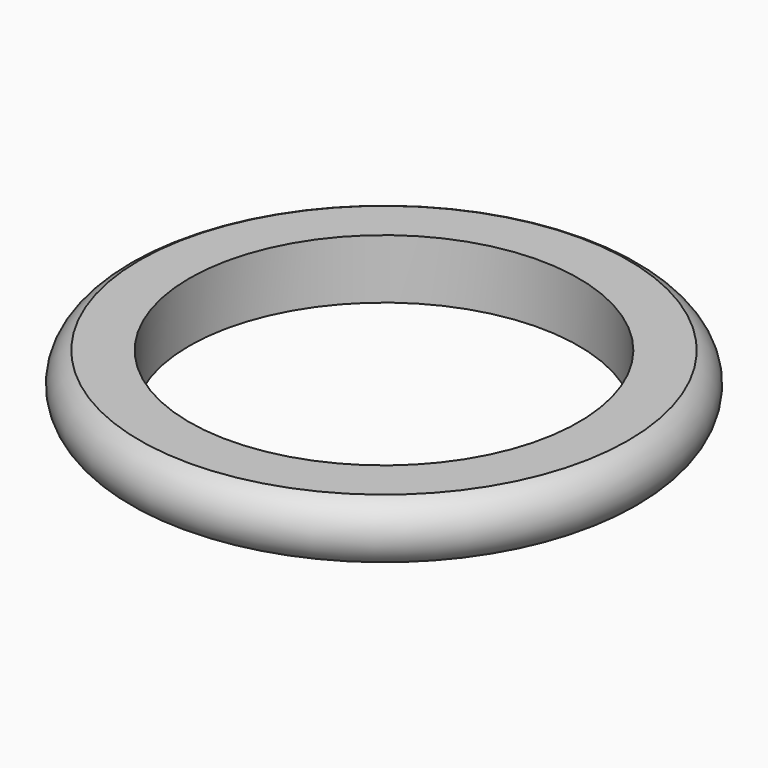
from build123d import *


with BuildPart() as f1:
    # F0 (on Front) → F1 (revolve)
    with BuildSketch(Plane.XZ):
        with BuildLine():
            Line((1.5, 1.8), (0, 1.8))
            ThreePointArc((0, 1.8), (-0.6, 0.9), (0, 0))
            Line((0, 0), (1.5, 0))
            Line((1.5, 0), (1.5, 1.8))
        make_face()
    revolve(axis=Axis((7.4, 0, 0.314722), (0, 0, -1)))


solid = f1.part
